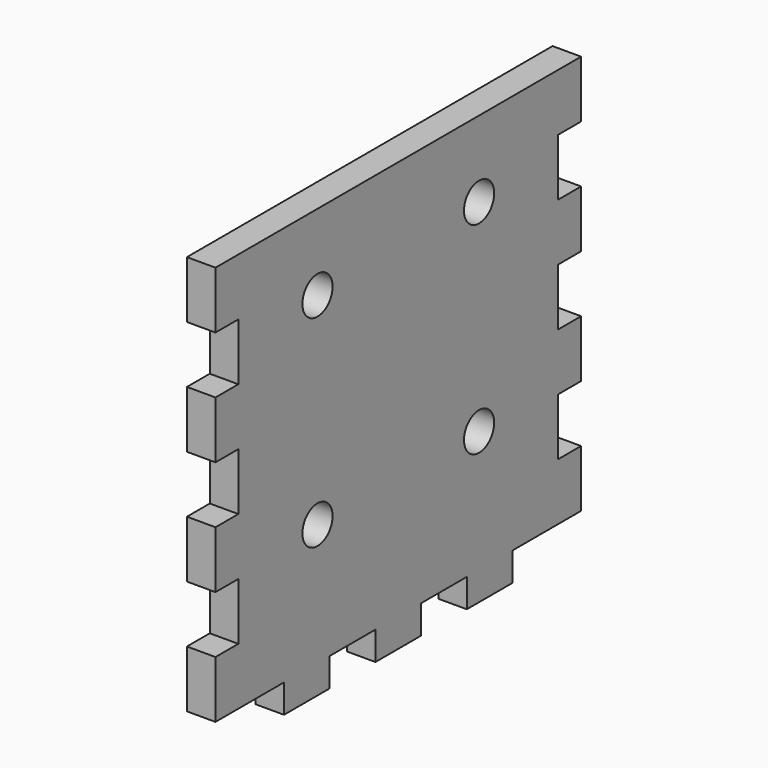
from build123d import *

# Parameters (mm, degrees)
F0_W     = 70
F0_H     = 70
F1_DEPTH = 2.5
F2_W     = 10
F2_H     = 5
F3_DEPTH = 5
F4_W     = 5
F4_H     = 10
F5_DEPTH = 5
F7_D     = 6.6


with BuildPart() as f1:
    # F0 (on Right) → F1 (new body, symmetric)
    with BuildSketch(Plane.YZ):
        Rectangle(F0_W, F0_H)
    extrude(amount=F1_DEPTH, both=True)

    # F2 (on face) → F3 (join)
    with BuildSketch(Plane.YZ.offset(2.5)):
        with Locations((-20, -37.5)):
            Rectangle(F2_W, F2_H)
        with Locations((0, -37.5)):
            Rectangle(F2_W, F2_H)
        with Locations((20, -37.5)):
            Rectangle(F2_W, F2_H)
    extrude(amount=-F3_DEPTH)

    # F4 (on face) → F5 (join, through all)
    with BuildSketch(Plane.YZ.offset(2.5)):
        with Locations((-37.5, -30)):
            Rectangle(F4_W, F4_H)
        with Locations((-37.5, -10)):
            Rectangle(F4_W, F4_H)
        with Locations((-37.5, 10)):
            Rectangle(F4_W, F4_H)
        with Locations((-37.5, 30)):
            Rectangle(F4_W, F4_H)
        with Locations((37.5, 30)):
            Rectangle(F4_W, F4_H)
        with Locations((37.5, -30)):
            Rectangle(F4_W, F4_H)
        with Locations((37.5, 10)):
            Rectangle(F4_W, F4_H)
        with Locations((37.5, -10)):
            Rectangle(F4_W, F4_H)
    extrude(amount=-F5_DEPTH)

    # F7 (through all)
    with Locations(Plane.YZ.offset(2.5)):
        with Locations((-17.6776695297, 21.6776695297), (17.6776695297, 21.6776695297), (17.6776695297, -13.6776695297), (-17.6776695297, -13.6776695297)):
            Hole(F7_D / 2)


solid = f1.part
